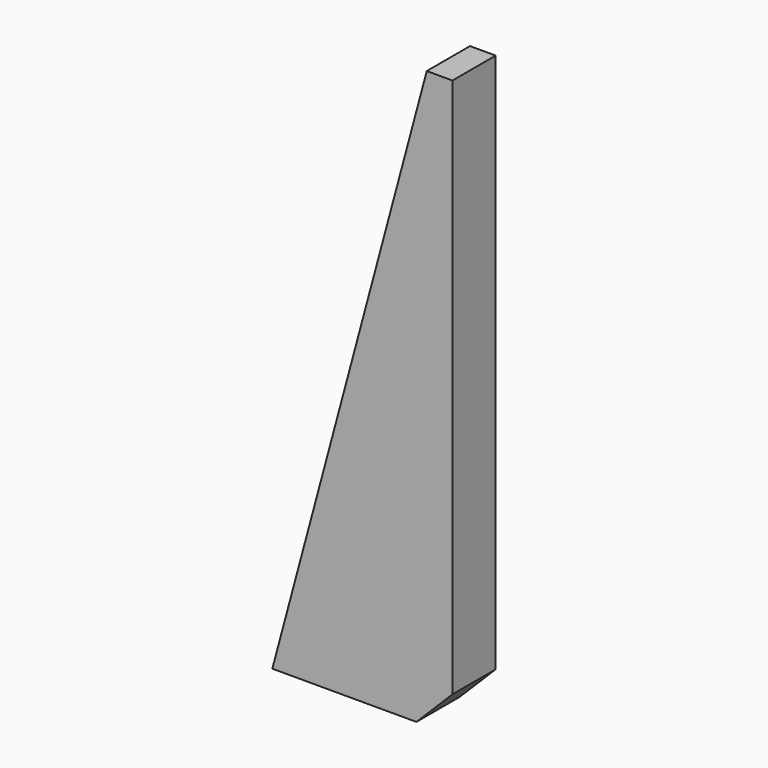
from build123d import *

# Parameters (mm, degrees)
F1_DEPTH = 15
F2_SIZE  = 10


with BuildPart() as f1:
    # F0 (on Front) → F1 (new body)
    with BuildSketch(Plane.XZ):
        Polygon((17.871871, 80), (-25, -80), (25, -80), (25, 80), align=None)
    extrude(amount=F1_DEPTH)

    # F2
    f2_edges = [f1.edges().sort_by_distance(p)[0] for p in [
        (25, -7.5, -80),
    ]]
    chamfer(f2_edges, length=F2_SIZE)


solid = f1.part
